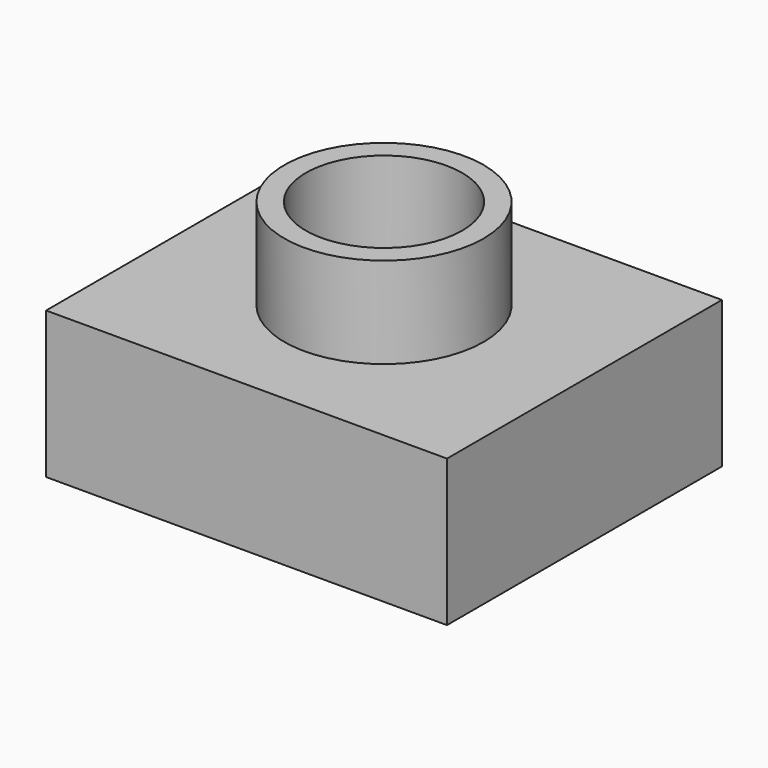
from build123d import *

# Parameters (mm, degrees)
F0_W     = 152.4
F0_H     = 152.4
F1_DEPTH = 65.024
F2_R     = 34.6904695034
F3_DEPTH = 125.984
F4_R     = 44.1859582528
F4_R_2   = 34.6904695034
F5_DEPTH = 40.386
F6_DEPTH = 12.7
F7_DEPTH = 12.7


with BuildPart() as f1:
    # F0 (on Top) → F1 (new body)
    with BuildSketch(Plane.XY):
        Rectangle(F0_W, F0_H)
    extrude(amount=F1_DEPTH)

    # F2 (on face) → F3 (cut)
    with BuildSketch(Plane.XY.offset(65.024)):
        Circle(F2_R)
    extrude(amount=-F3_DEPTH, mode=Mode.SUBTRACT)

    # F4 (on face) → F5 (join)
    with BuildSketch(Plane.XY.offset(65.024)):
        Circle(F4_R)
        Circle(F4_R_2, mode=Mode.SUBTRACT)
    extrude(amount=F5_DEPTH)

    # F6 (add): a face of the model
    f6_faces = [f1.faces().sort_by_distance(p)[0] for p in [
        (76.2, 0, 32.512),
    ]]
    extrude(f6_faces, amount=F6_DEPTH)

    # F7 (add): a face of the model
    f7_faces = [f1.faces().sort_by_distance(p)[0] for p in [
        (-76.2, 0, 32.512),
    ]]
    extrude(f7_faces, amount=F7_DEPTH)


solid = f1.part
